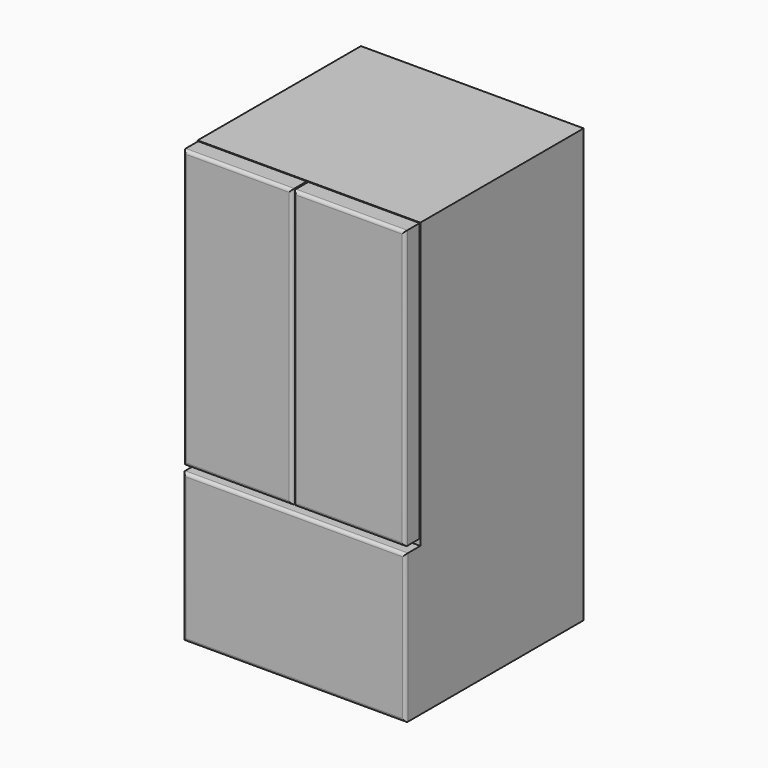
from build123d import *

# Parameters (mm, degrees)
F0_W     = 914.4
F0_H     = 838.2
F1_DEPTH = 1778
F2_W     = 914.4
F2_H     = 609.6
F2_W_2   = 445.77
F2_H_2   = 1140.46
F2_W_3   = 457.2
F3_DEPTH = 76.2
F4_R     = 12.7


with BuildPart() as f1:
    # F0 (on Top) → F1 (new body)
    with BuildSketch(Plane.XY):
        with Locations((-457.2, -419.1)):
            Rectangle(F0_W, F0_H)
    extrude(amount=F1_DEPTH)

    # F2 (on face) → F3 (join)
    with BuildSketch(Plane.XZ.offset(838.2)):
        with Locations((-457.2, 304.8)):
            Rectangle(F2_W, F2_H)
        with Locations((-688.975, 1205.23)):
            Rectangle(F2_W_2, F2_H_2)
        with Locations((-231.14, 1205.23)):
            Rectangle(F2_W_3, F2_H_2)
    extrude(amount=F3_DEPTH)

    # F4
    f4_edges = [f1.edges().sort_by_distance(p)[0] for p in [
        (-688.975, -914.4, 1775.46),
        (-466.09, -914.4, 1205.23),
        (-459.74, -914.4, 1205.23),
        (-231.14, -914.4, 1775.46),
        (-2.54, -914.4, 1205.23),
        (-231.14, -914.4, 635),
        (-688.975, -914.4, 635),
        (-911.86, -914.4, 1205.23),
        (-457.2, -914.4, 609.6),
        (-914.4, -914.4, 304.8),
        (-457.2, -914.4, 0),
        (0, -914.4, 304.8),
    ]]
    fillet(f4_edges, radius=F4_R)


solid = f1.part
